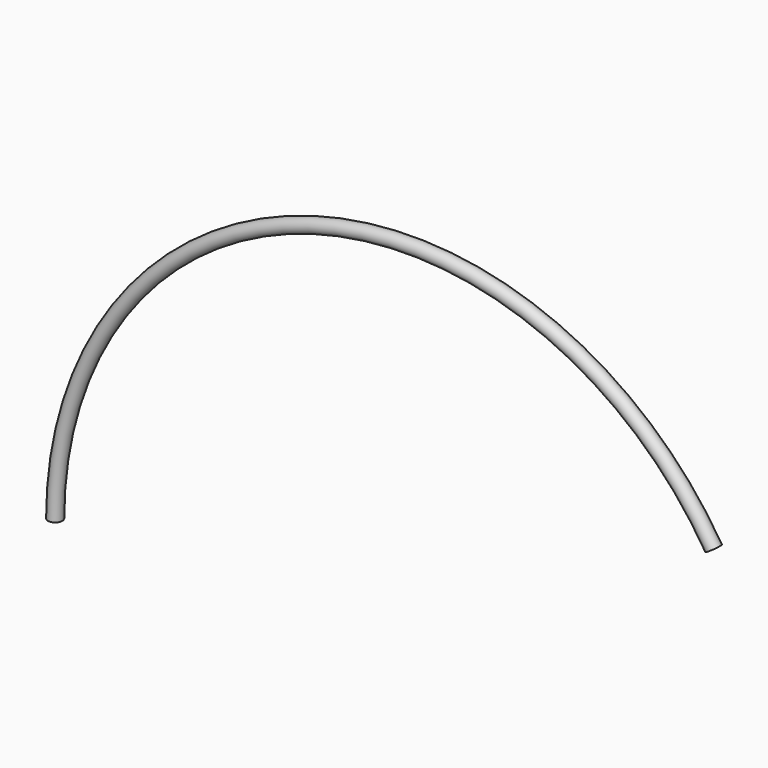
from build123d import *

# Parameters (mm, degrees)
F0_R   = 55
F0_R_2 = 48


with BuildPart() as f2:
    # F2: sweep along a path in F1
    with BuildLine(Plane.XZ) as f2_path:
        ThreePointArc((5096.847358, 1453.322749), (2000, 2650), (0, 0))
    # F0 (on Top) → F2 (sweep)
    with BuildSketch(Plane.XY):
        Circle(F0_R)
        Circle(F0_R_2, mode=Mode.SUBTRACT)
    sweep(path=f2_path.line)


solid = f2.part
